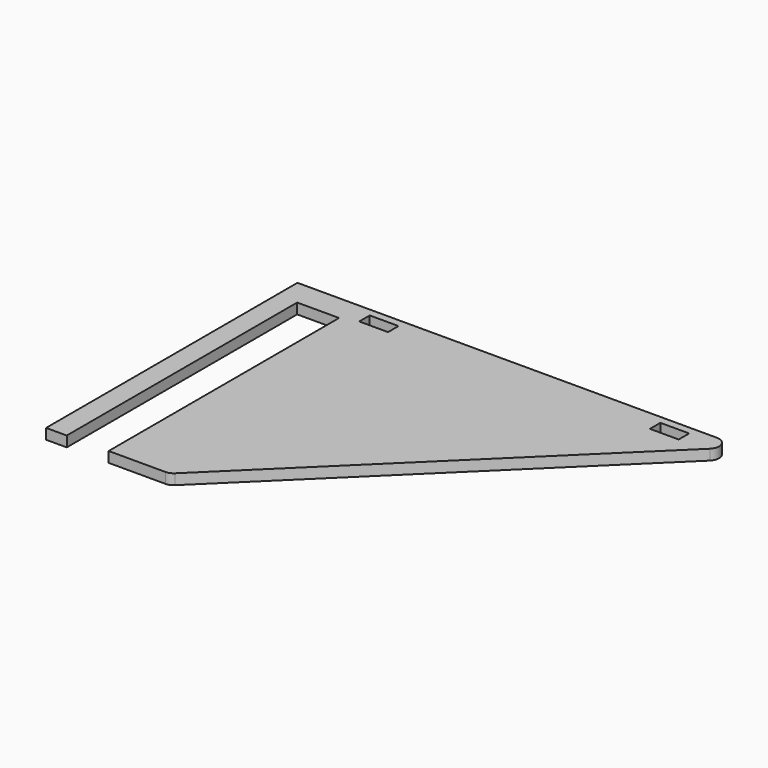
from build123d import *

# Parameters (mm, degrees)
F1_DEPTH = 2
F2_W     = 5.5
F2_H     = 2.5
F3_DEPTH = 25


with BuildPart() as f1:
    # F0 (on Top) → F1 (new body)
    with BuildSketch(Plane.XY):
        with BuildLine():
            Line((12.570087, 39.363061), (-67.521967, 39.363061))
            Line((-67.521967, 39.363061), (-67.521967, -20.636939))
            Line((-67.521967, -20.636939), (-63.574962, -20.636939))
            Line((-63.574962, -20.636939), (-63.574962, 34.363061))
            Line((-63.574962, 34.363061), (-55.574962, 34.363061))
            Line((-55.574962, 34.363061), (-55.574962, -20.636939))
            Line((-55.574962, -20.636939), (-44.731092, -20.636939))
            ThreePointArc((-44.731092, -20.636939), (-43.976347, -20.489063), (-43.333211, -20.0673))
            Line((-43.333211, -20.0673), (13.967967, 35.9327))
            ThreePointArc((13.967967, 35.9327), (14.42221, 38.117805), (12.570087, 39.363061))
        make_face()
    extrude(amount=F1_DEPTH)

    # F2 (on face) → F3 (cut)
    with BuildSketch(Plane.XY.offset(2)):
        with Locations((-49.771967, 36.613061)):
            Rectangle(F2_W, F2_H)
        with Locations((5.728033, 36.613061)):
            Rectangle(F2_W, F2_H)
    extrude(amount=-F3_DEPTH, mode=Mode.SUBTRACT)


solid = f1.part
